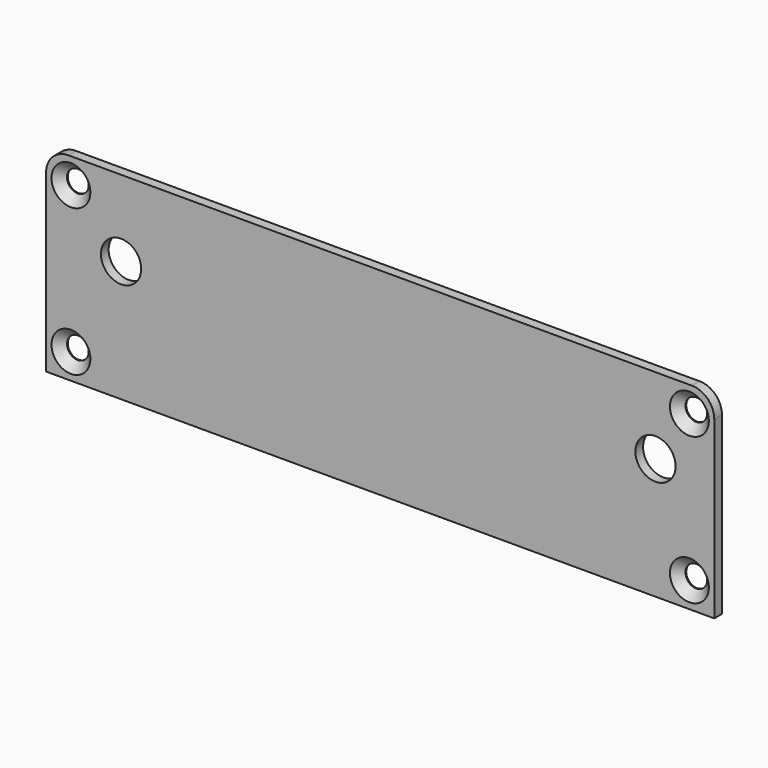
from build123d import *

# Parameters (mm, degrees)
SKETCH_W            = 104.8
SKETCH_H            = 31
PAD_DEPTH           = 1.5
HOLE_D              = 3.4
HOLE_DEPTH          = 25
HOLE_CSINK_D        = 6.1
HOLE_CSINK_ANGLE    = 90
FILLET_R            = 3.5
SKETCH002_R         = 3.15
POCKET_DEPTH        = 1.501
LINEARPATTERN_COUNT = 2
LINEARPATTERN_PITCH = 83.82


with BuildPart() as part:
    # Sketch → Pad (new body)
    with BuildSketch(Plane.XZ):
        Rectangle(SKETCH_W, SKETCH_H)
    extrude(amount=PAD_DEPTH)

    # Hole
    with Locations(Plane.XZ.offset(1.5)):
        with Locations((-48.5, 11.5), (-48.5, -11.5), (48.5, -11.5), (48.5, 11.5)):
            CounterSinkHole(HOLE_D / 2, HOLE_CSINK_D / 2, depth=HOLE_DEPTH, counter_sink_angle=HOLE_CSINK_ANGLE)

    # Fillet
    fillet_edges = [part.edges().sort_by_distance(p)[0] for p in [
        (-52.4, -0.75, 15.5),
        (52.4, -0.75, 15.5),
    ]]
    fillet(fillet_edges, radius=FILLET_R)

    # Sketch002 (on Face5 of Fillet) → Pocket (cut, through all)
    with BuildSketch(Plane.XZ.offset(1.5)):
        with Locations((-40.64, 3.52)):
            Circle(SKETCH002_R)
    pocket = extrude(amount=-POCKET_DEPTH, mode=Mode.SUBTRACT)

    # LinearPattern: Pocket ×2
    with Locations(*[(i * LINEARPATTERN_PITCH, 0, 0) for i in range(1, LINEARPATTERN_COUNT)]):
        add(pocket, mode=Mode.SUBTRACT)


solid = part.part
